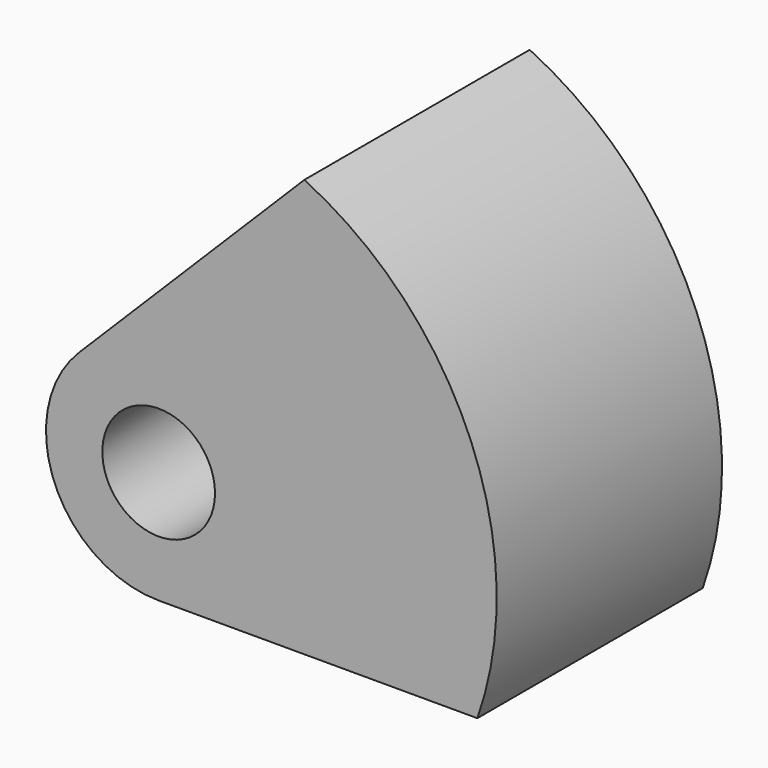
from build123d import *

# Parameters (mm, degrees)
F0_R     = 10
F1_DEPTH = 25


with BuildPart() as f1:
    # F0 (on Front) → F1 (new body, symmetric)
    with BuildSketch(Plane.XZ):
        with BuildLine():
            Line((25.857864, 54.142136), (-14.142136, 14.142136))
            ThreePointArc((-14.142136, 14.142136), (-18.477591, -7.653669), (0, -20))
            Line((0, -20), (56.568542, -20))
            ThreePointArc((56.568542, -20), (55.432772, 22.961006), (25.857864, 54.142136))
        make_face()
        Circle(F0_R, mode=Mode.SUBTRACT)
    extrude(amount=F1_DEPTH, both=True)


solid = f1.part
